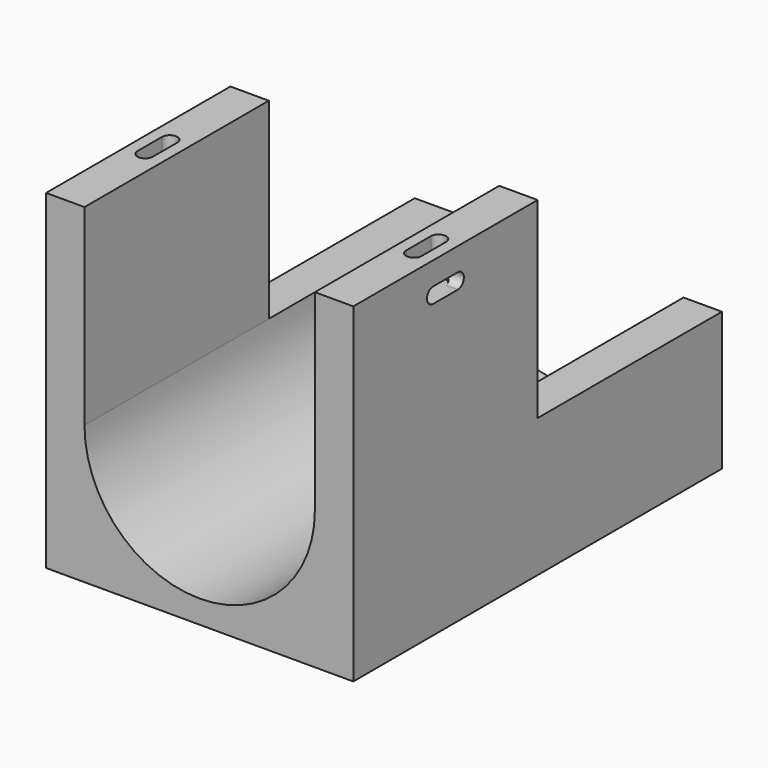
from build123d import *

# Parameters (mm, degrees)
PAD_DEPTH       = 120
SKETCH001_W     = 10
SKETCH001_H     = 60
PAD001_DEPTH    = 50
POCKET_DEPTH    = 10
POCKET001_DEPTH = 5
POCKET002_DEPTH = 5


with BuildPart() as part:
    # Sketch → Pad (new body)
    with BuildSketch(Plane.XZ):
        with BuildLine():
            Line((-40, 0), (40, 0))
            Line((40, 0), (40, 36))
            Line((40, 36), (30, 36))
            ThreePointArc((-30, 36), (0, 6), (30, 36))
            Line((-40, 36), (-30, 36))
            Line((-40, 0), (-40, 36))
        make_face()
    extrude(amount=PAD_DEPTH)

    # Sketch001 (on Face5 of Pad) → Pad001 (join)
    with BuildSketch(Plane(origin=(0, 0, 36), x_dir=(-1, 0, 0), z_dir=(0, 0, 1))):
        with Locations((-35, 90)):
            Rectangle(SKETCH001_W, SKETCH001_H)
        with Locations((35, 90)):
            Rectangle(SKETCH001_W, SKETCH001_H)
    extrude(amount=PAD001_DEPTH)

    # Sketch002 (on Face14 of Pad001) → Pocket (cut)
    with BuildSketch(Plane(origin=(0, 0, 86), x_dir=(-1, 0, 0), z_dir=(0, 0, 1))):
        with BuildLine():
            ThreePointArc((33, 86), (35, 84), (37, 86))
            Line((37, 86), (37, 94))
            ThreePointArc((37, 94), (35, 96), (33, 94))
            Line((33, 86), (33, 94))
        make_face()
        with BuildLine():
            ThreePointArc((-37, 86), (-35, 84), (-33, 86))
            Line((-33, 86), (-33, 94))
            ThreePointArc((-33, 94), (-35, 96), (-37, 94))
            Line((-37, 86), (-37, 94))
        make_face()
    extrude(amount=-POCKET_DEPTH, mode=Mode.SUBTRACT)

    # Sketch003 (on Face7 of Pocket) → Pocket001 (cut)
    with BuildSketch(Plane(origin=(-40, 0, 0), x_dir=(0, 0, -1), z_dir=(-1, 0, 0))):
        with BuildLine():
            ThreePointArc((-80, 86), (-78, 84), (-76, 86))
            Line((-76, 86), (-76, 94))
            ThreePointArc((-76, 94), (-78, 96), (-80, 94))
            Line((-80, 86), (-80, 94))
        make_face()
    extrude(amount=-POCKET001_DEPTH, mode=Mode.SUBTRACT)

    # Sketch004 (on Face9 of Pocket001) → Pocket002 (cut)
    with BuildSketch(Plane(origin=(40, 0, 0), x_dir=(0, 0, 1), z_dir=(1, 0, 0))):
        with BuildLine():
            ThreePointArc((80, 94), (78, 96), (76, 94))
            Line((76, 94), (76, 86))
            ThreePointArc((76, 86), (78, 84), (80, 86))
            Line((80, 94), (80, 86))
        make_face()
    extrude(amount=-POCKET002_DEPTH, mode=Mode.SUBTRACT)


solid = part.part
